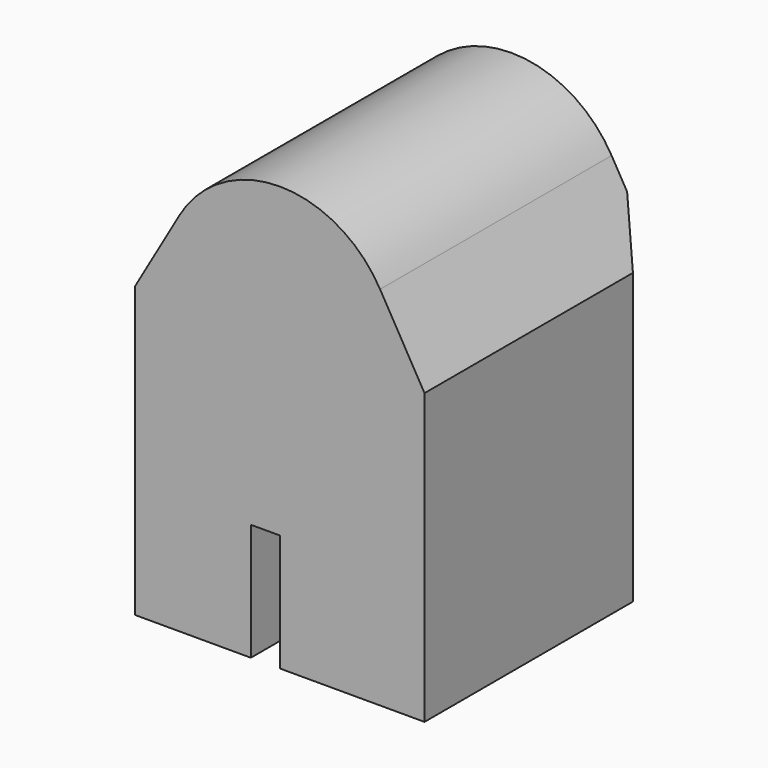
from build123d import *

# Parameters (mm, degrees)
F1_DEPTH = 50
F2_R     = 20
F3_SIZE  = 5


with BuildPart() as f1:
    # F0 (on Front) → F1 (new body)
    with BuildSketch(Plane.XZ):
        Polygon((0, -25), (25, -25), (25, 25), (0, 68.30127), (-25, 25), (-25, -25), (-5, -25), (-5, -4.773571), (0, -4.773571), align=None)
    extrude(amount=F1_DEPTH)

    # F2
    f2_edges = [f1.edges().sort_by_distance(p)[0] for p in [
        (0, -25, 68.30127),
    ]]
    fillet(f2_edges, radius=F2_R)

    # F3
    f3_edges = [f1.edges().sort_by_distance(p)[0] for p in [
        (25, 0, 0),
        (-25, 0, 0),
    ]]
    chamfer(f3_edges, length=F3_SIZE)


solid = f1.part
